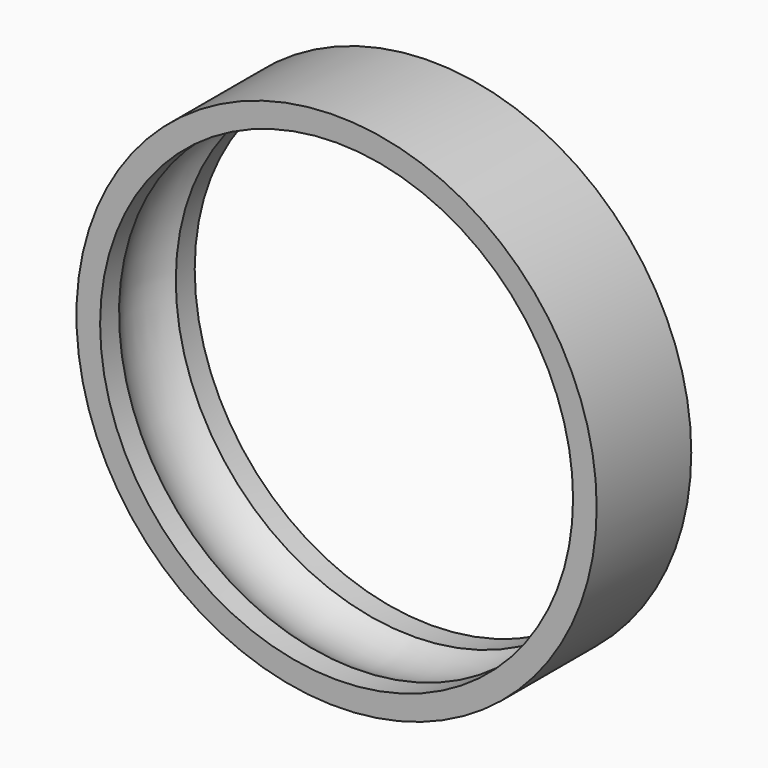
from build123d import *

# Parameters (mm, degrees)
F0_R     = 55
F1_DEPTH = 12.5


with BuildPart() as f1:
    # F0 (on Front) → F1 (new body, symmetric)
    with BuildSketch(Plane.XZ):
        Circle(F0_R)
        with BuildLine():
            ThreePointArc((0, 50), (35.3553390593, 35.3553390593), (50, 0))
            ThreePointArc((50, 0), (-35.3553390593, -35.3553390593), (0, 50))
        make_face(mode=Mode.SUBTRACT)
    extrude(amount=F1_DEPTH, both=True)

    # F2 (on Right) → F3 (revolve, cut)
    with BuildSketch(Plane.YZ):
        with BuildLine():
            Line((-12.5004435434, 40), (12.4995564566, 40))
            ThreePointArc((12.4995564566, 40), (-0.0004435434, 52.5), (-12.5004435434, 40))
        make_face()
    revolve(axis=Axis((0, 0, 0), (0, -1, 0)), mode=Mode.SUBTRACT)


solid = f1.part
